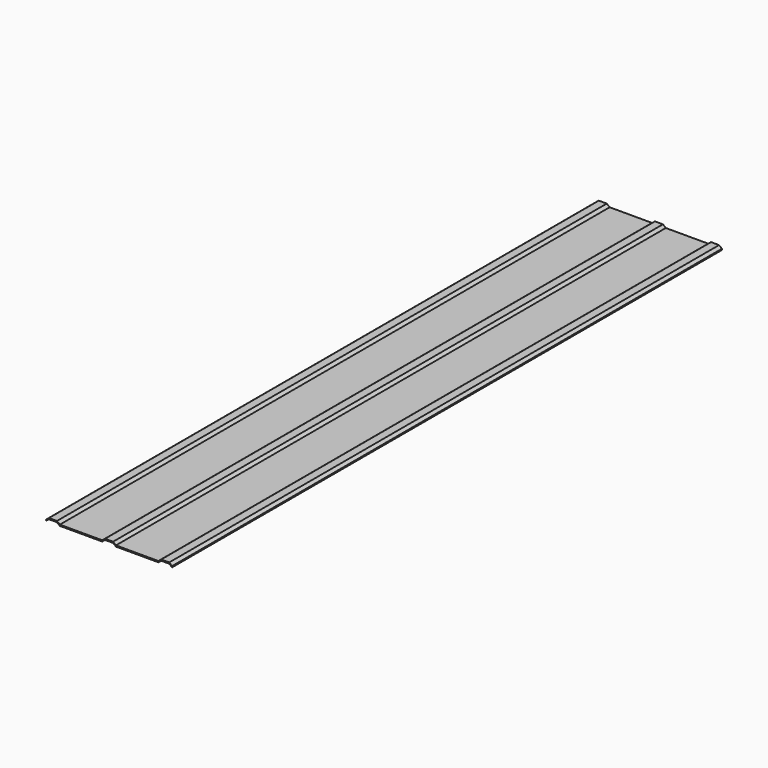
from build123d import *

# Parameters (mm, degrees)
F1_DEPTH = 3000


with BuildPart() as f1:
    # F0 (on Front) → F1 (new body, symmetric)
    with BuildSketch(Plane.XZ):
        Polygon((-455, 20), (-430, 0), (-60, 0), (-35, 20), (35, 20), (60, 0), (430, 0), (455, 20), (525, 20), (550, 0), (550, 10), (525, 30), (455, 30), (430, 10), (60, 10), (35, 30), (-35, 30), (-60, 10), (-430, 10), (-455, 30), (-525, 30), (-550, 10), (-550, 0), (-525, 20), align=None)
    extrude(amount=F1_DEPTH, both=True)


solid = f1.part
